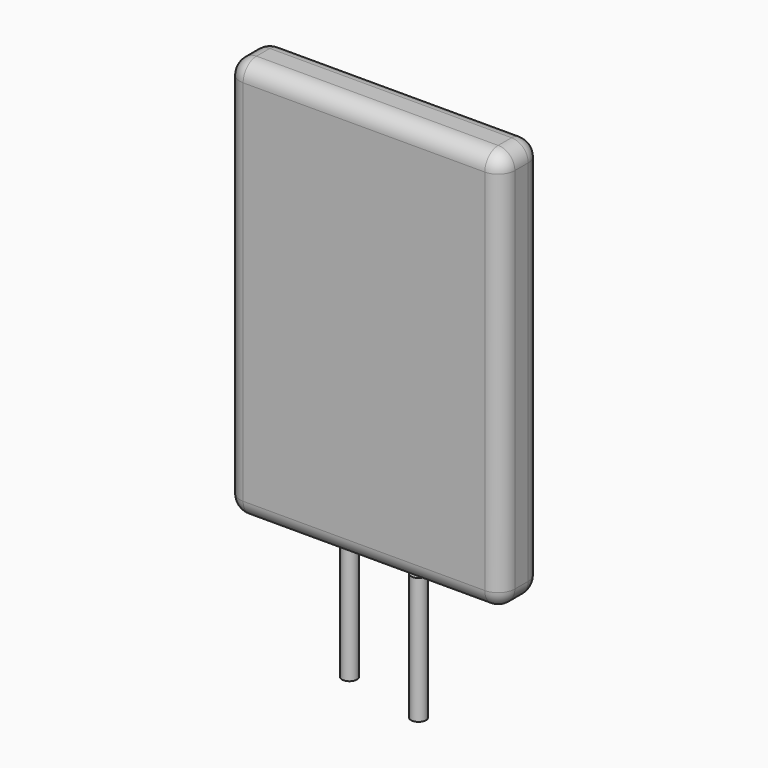
from build123d import *

# Parameters (mm, degrees)
SKETCH_R     = 0.45
PAD_DEPTH    = 7.6
SKETCH001_W  = 16.5
SKETCH001_H  = 3
PAD001_DEPTH = 24.1
FILLET_R     = 1


with BuildPart() as obj1:
    # Sketch → Pad (new body)
    with BuildSketch(Plane.XY):
        with Locations((2.55, -0.6)):
            Circle(SKETCH_R)
        with Locations((-2.55, 0.6)):
            Circle(SKETCH_R)
    extrude(amount=-PAD_DEPTH)


with BuildPart() as obj2:
    # Sketch001 → Pad001 (new body)
    with BuildSketch(Plane.XY):
        Rectangle(SKETCH001_W, SKETCH001_H)
    extrude(amount=PAD001_DEPTH)

    # Fillet
    fillet_edges = [obj2.edges().sort_by_distance(p)[0] for p in [
        (0, -1.5, 24.1),
        (-8.25, 0, 24.1),
        (0, 1.5, 24.1),
        (8.25, -1.5, 12.05),
        (8.25, 1.5, 12.05),
        (-8.25, -1.5, 12.05),
        (8.25, 0, 0),
        (0, -1.5, 0),
        (8.25, 0, 24.1),
        (0, 1.5, 0),
        (-8.25, 1.5, 12.05),
        (-8.25, 0, 0),
    ]]
    fillet(fillet_edges, radius=FILLET_R)


solid = Compound([obj1.part, obj2.part])
